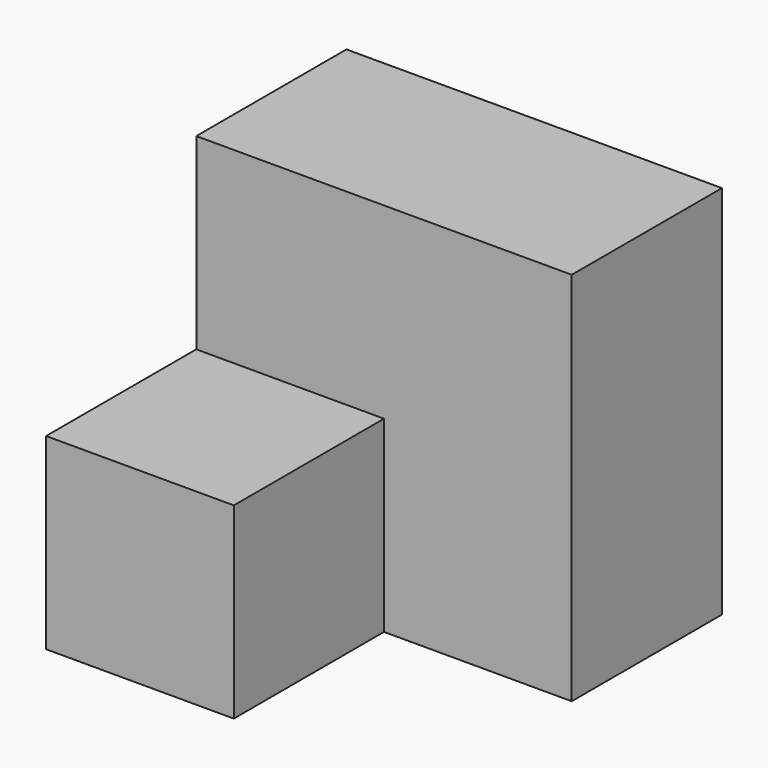
from build123d import *

# Parameters (mm, degrees)
F0_W     = 25.4
F0_H     = 25.4
F1_DEPTH = 50.8
F2_W     = 25.4
F2_H     = 25.4
F3_DEPTH = 25.4
F4_W     = 25.4
F4_H     = 50.8
F5_DEPTH = 25.4


with BuildPart() as f1:
    # F0 (on Front) → F1 (new body)
    with BuildSketch(Plane.XZ):
        with Locations((-40.69624, -57.852972)):
            Rectangle(F0_W, F0_H)
    extrude(amount=F1_DEPTH)

    # F2 (on face) → F3 (join)
    with BuildSketch(Plane.XY.offset(-45.152972)):
        with Locations((-40.69624, -12.7)):
            Rectangle(F2_W, F2_H)
    extrude(amount=F3_DEPTH)

    # F4 (on face) → F5 (join)
    with BuildSketch(Plane.YZ.offset(-27.99624)):
        with Locations((-12.7, -45.152972)):
            Rectangle(F4_W, F4_H)
    extrude(amount=F5_DEPTH)


solid = f1.part
